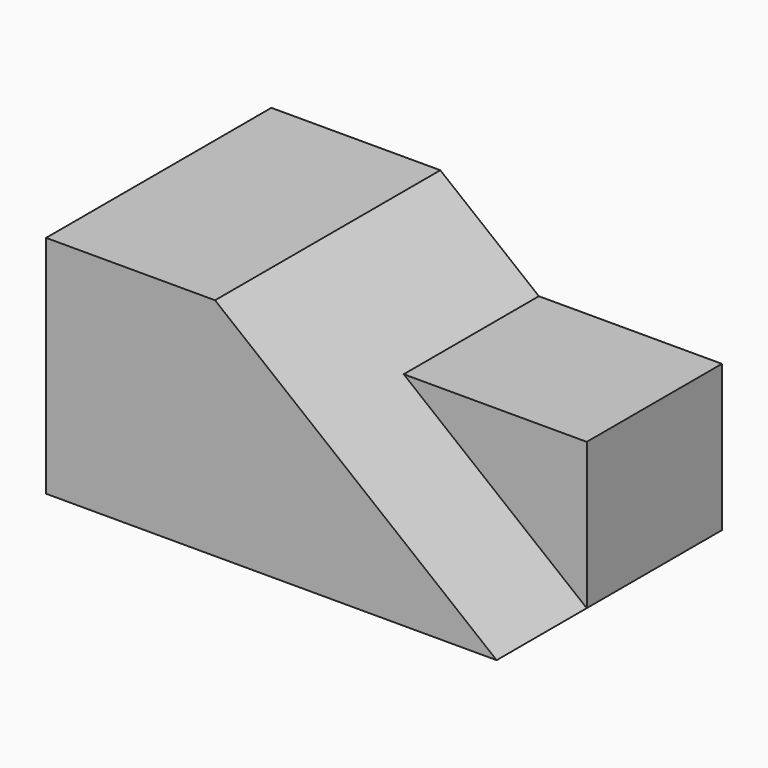
from build123d import *

# Parameters (mm, degrees)
F0_W     = 50.8
F0_H     = 25.4
F1_DEPTH = 31.75
F3_DEPTH = 31.75
F5_DEPTH = 19.05


with BuildPart() as f1:
    # F0 (on Front) → F1 (new body)
    with BuildSketch(Plane.XZ):
        with Locations((25.4, 12.7)):
            Rectangle(F0_W, F0_H)
    extrude(amount=F1_DEPTH)

    # F2 (on face) → F3 (cut)
    with BuildSketch(Plane.XZ.offset(31.75)):
        Polygon((50.8, 25.4), (19.05, 25.4), (50.8, 0), align=None)
    extrude(amount=-F3_DEPTH, mode=Mode.SUBTRACT)

    # F4 (on face) → F5 (join)
    with BuildSketch(Plane(origin=(0, 0, 0), x_dir=(-1, 0, 0), z_dir=(0, 1, 0))):
        Polygon((-50.8, 16.51), (-50.8, 0), (-30.1625, 16.51), align=None)
    extrude(amount=-F5_DEPTH)


solid = f1.part
